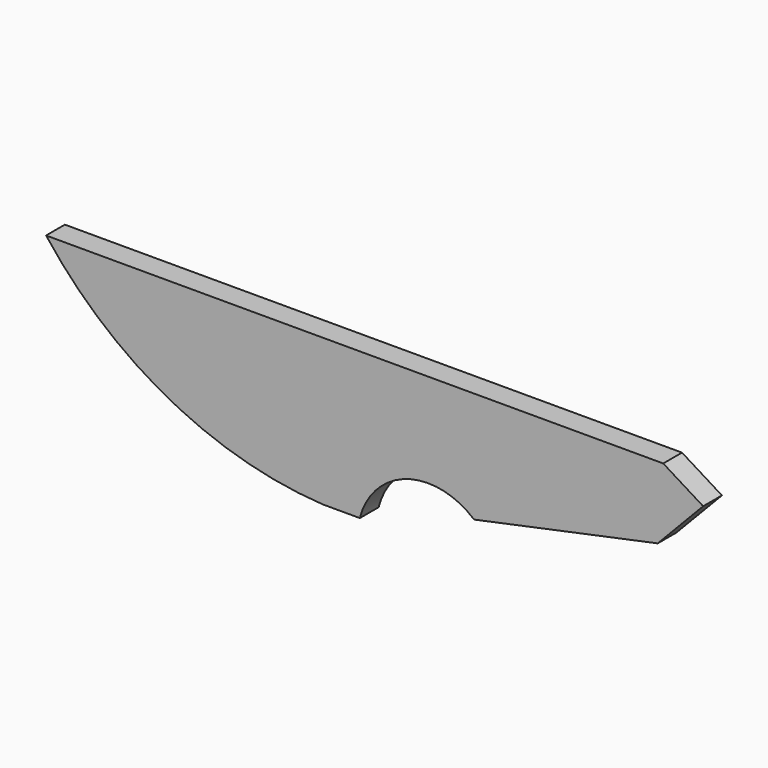
from build123d import *

# Parameters (mm, degrees)
F1_DEPTH = 3.175


with BuildPart() as f1:
    # F0 (on Front) → F1 (new body, symmetric)
    with BuildSketch(Plane.XZ):
        with BuildLine():
            Line((92.119219, 0), (0, 0))
            Line((0, 0), (-74.882414, 0))
            ThreePointArc((-74.882414, 0), (-41.781204, -28.04175), (0, -39.719114))
            Line((0, -39.719114), (10.017892, -39.719114))
            ThreePointArc((10.017892, -39.719114), (22.767105, -26.267005), (40.91723, -30.018622))
            Line((40.91723, -30.018622), (90.622252, -19.528114))
            Line((90.622252, -19.528114), (102.917586, -6.684704))
            Line((102.917586, -6.684704), (92.119219, 0))
        make_face()
    extrude(amount=F1_DEPTH, both=True)


solid = f1.part
